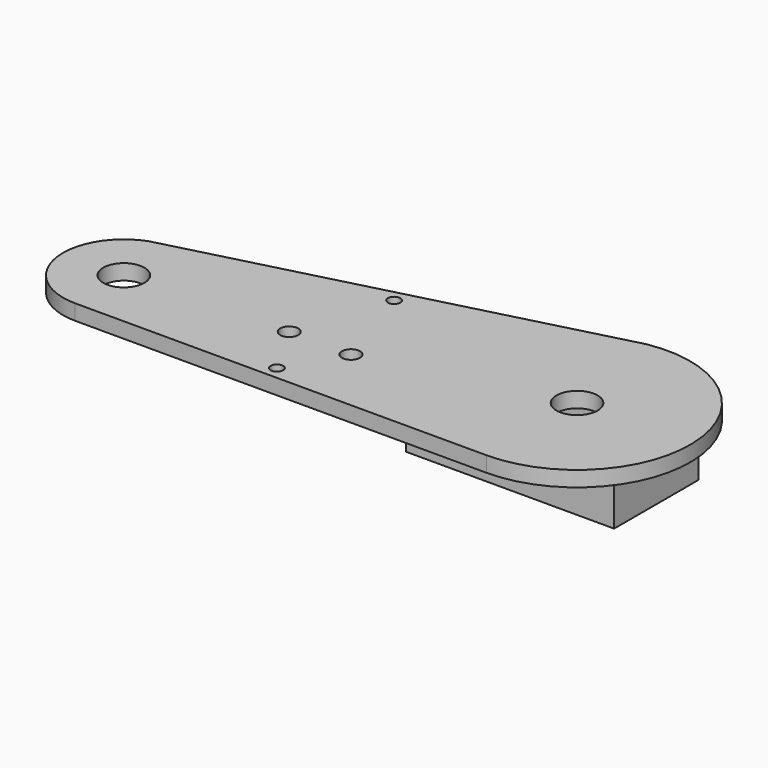
from build123d import *

# Parameters (mm, degrees)
CYLINDER026_R     = 1.75
CYLINDER026_DEPTH = 20
CYLINDER025_R     = 1.75
CYLINDER025_DEPTH = 20
CYLINDER014_R     = 1.2
CYLINDER014_DEPTH = 10
CYLINDER013_R     = 1.2
CYLINDER013_DEPTH = 10
SKETCH_R          = 4
PAD_DEPTH         = 3
BOX008_W          = 23.5
BOX008_H          = 12.5
BOX008_DEPTH      = 10
BOX007_W          = 32.5
BOX007_H          = 12.5
BOX007_DEPTH      = 2
BOX006_W          = 40.5
BOX006_H          = 20.5
BOX006_DEPTH      = 9.5


with BuildPart() as cylinder061:
    # Cylinder026 → Cylinder026 (new body)
    with BuildSketch(Plane(origin=(40, -18, 77), x_dir=(1, 0, 0), z_dir=(0, 0, 1))):
        Circle(CYLINDER026_R)
    extrude(amount=CYLINDER026_DEPTH)


with BuildPart() as cylinder060:
    # Cylinder025 → Cylinder025 (new body)
    with BuildSketch(Plane(origin=(28, -18, 77), x_dir=(1, 0, 0), z_dir=(0, 0, 1))):
        Circle(CYLINDER025_R)
    extrude(amount=CYLINDER025_DEPTH)


with BuildPart() as cylinder049:
    # Cylinder014 → Cylinder014 (new body)
    with BuildSketch(Plane(origin=(55, 19, -5), x_dir=(1, 0, 0), z_dir=(0, 0, 1))):
        Circle(CYLINDER014_R)
    extrude(amount=CYLINDER014_DEPTH)


with BuildPart() as cylinder048:
    # Cylinder013 → Cylinder013 (new body)
    with BuildSketch(Plane(origin=(55, -9.5, -5), x_dir=(1, 0, 0), z_dir=(0, 0, 1))):
        Circle(CYLINDER013_R)
    extrude(amount=CYLINDER013_DEPTH)


with BuildPart() as tapa:
    # Sketch → Pad (new body)
    with BuildSketch(Plane.XY.offset(-3)):
        with BuildLine():
            ThreePointArc((13.733879, 10.914307), (6.136168, -2.245404), (17.776624, -12.012848))
            Line((17.776624, -12.012848), (97.776624, -12.012848))
            ThreePointArc((97.776624, -12.012848), (119.712869, 11.926287), (93.95296, 31.692625))
            Line((13.733879, 10.914307), (93.95296, 31.692625))
        make_face()
        with Locations((17.77659, -0.192848)):
            Circle(SKETCH_R, mode=Mode.SUBTRACT)
        with Locations((97.776659, 10.007152)):
            Circle(SKETCH_R, mode=Mode.SUBTRACT)
    extrude(amount=PAD_DEPTH)


with BuildPart() as cube008:
    # Box008 → Box008 (new body)
    with BuildSketch(Plane(origin=(8.5, 4, 0), x_dir=(1, 0, 0), z_dir=(0, 0, 1))):
        with Locations((11.75, 6.25)):
            Rectangle(BOX008_W, BOX008_H)
    extrude(amount=BOX008_DEPTH)


with BuildPart() as cube007:
    # Box007 → Box007 (new body)
    with BuildSketch(Plane(origin=(4, 4, 0), x_dir=(1, 0, 0), z_dir=(0, 0, 1))):
        with Locations((16.25, 6.25)):
            Rectangle(BOX007_W, BOX007_H)
    extrude(amount=BOX007_DEPTH)


with BuildPart() as tapa_izquierda_interior:
    # Box006 → Box006 (new body)
    with BuildSketch(Plane.XY):
        with Locations((20.25, 10.25)):
            Rectangle(BOX006_W, BOX006_H)
    extrude(amount=BOX006_DEPTH)

    # Cut008: cut Cube007
    add(cube007.part, mode=Mode.SUBTRACT)

    # Cut009: cut Cube008
    add(cube008.part, mode=Mode.SUBTRACT)


with BuildPart() as tapa_izquierda_interior_1:
    # Cut009 placement: moved
    add(tapa_izquierda_interior.part.moved(Location((72.5, 0, -12.5))))

    # Fusion006: union Tapa
    add(tapa.part)


with BuildPart() as tapa_izquierda_interior_2:
    # Fusion006 placement: moved
    add(tapa_izquierda_interior_1.part.moved(Location((0, 0, -0.5))))

    # Cut013: cut Cylinder048
    add(cylinder048.part, mode=Mode.SUBTRACT)

    # Cut014: cut Cylinder049
    add(cylinder049.part, mode=Mode.SUBTRACT)


with BuildPart() as tapa_izquierda_interior_3:
    # Cut014 placement: moved
    add(tapa_izquierda_interior_2.part.moved(Location((-21, -19, 89))))

    # Cut049: cut Cylinder060
    add(cylinder060.part, mode=Mode.SUBTRACT)

    # Cut050: cut Cylinder061
    add(cylinder061.part, mode=Mode.SUBTRACT)


solid = tapa_izquierda_interior_3.part
